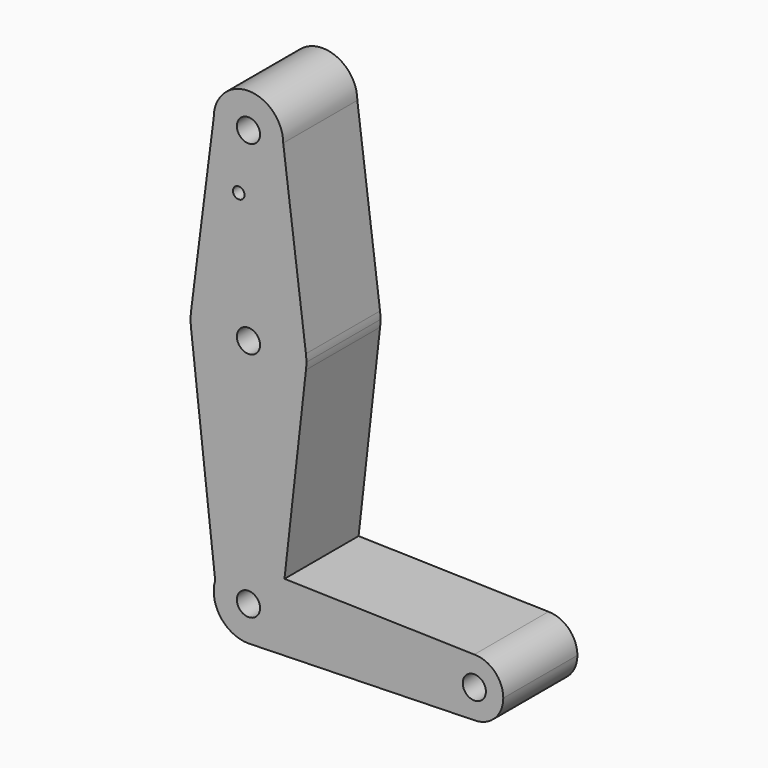
from build123d import *

# Parameters (mm, degrees)
F0_R     = 3.175
F0_R_2   = 1.5875
F1_DEPTH = 25.4


with BuildPart() as f1:
    # F0 (on Front) → F1 (new body)
    with BuildSketch(Plane.XZ):
        with BuildLine():
            ThreePointArc((-9.525, 114.3), (0, 104.775), (9.525, 114.3))
            ThreePointArc((9.525, 114.3), (0, 123.825), (-9.525, 114.3))
        make_face()
        with Locations((0, 114.3)):
            Circle(F0_R, mode=Mode.SUBTRACT)
        with BuildLine():
            Line((15.7474569259, 65.508289164), (9.525, 114.3))
            ThreePointArc((9.525, 114.3), (0, 104.775), (-9.525, 114.3))
            Line((-9.525, 114.3), (-15.7474569047, 65.5082893304))
            ThreePointArc((-15.7474569047, 65.5082893304), (8.39e-08, 79.375), (15.7474569259, 65.508289164))
        make_face()
        with Locations((-2.658412496, 98.3364137691)):
            Circle(F0_R_2, mode=Mode.SUBTRACT)
        with BuildLine():
            ThreePointArc((15.875, 63.5), (15.8430821449, 64.5061675559), (15.7474569259, 65.508289164))
            ThreePointArc((15.7474569259, 65.508289164), (8.39e-08, 79.375), (-15.7474569047, 65.5082893304))
            ThreePointArc((-15.7474569047, 65.5082893304), (-15.8749168485, 63.5513814524), (-15.7601270703, 61.5936894984))
            ThreePointArc((-15.7601270703, 61.5936894984), (0, 47.625), (15.7601270703, 61.5936894984))
            ThreePointArc((15.7601270703, 61.5936894984), (15.8462557445, 62.5451157769), (15.875, 63.5))
        make_face()
        with Locations((0, 63.5)):
            Circle(F0_R, mode=Mode.SUBTRACT)
        with BuildLine():
            ThreePointArc((15.7601270703, 61.5936894984), (0, 47.625), (-15.7601270703, 61.5936894984))
            Line((-15.7601270703, 61.5936894984), (-9.131612996, 2.7091085417))
            ThreePointArc((-9.131612996, 2.7091085417), (-5.6974277591, 7.6331475768), (0, 9.525))
            ThreePointArc((0, 9.525), (0.2441505225, 9.5218703794), (0.4881406045, 9.5124835742))
            Line((0.4881406045, 9.5124835742), (9.8703742168, 9.2719134816))
            Line((9.8703742168, 9.2719134816), (15.7601270703, 61.5936894984))
        make_face()
        with BuildLine():
            ThreePointArc((0, 9.525), (-5.6974277591, 7.6331475768), (-9.131612996, 2.7091085417))
            ThreePointArc((-9.131612996, 2.7091085417), (-7.6331475768, -5.6974277591), (0, -9.525))
            Line((0, -9.525), (0.4881406045, -9.5124835742))
            ThreePointArc((0.4881406045, -9.5124835742), (6.905619605, -6.5603386247), (9.525, 0))
            ThreePointArc((9.525, 0), (9.4261402172, 1.3687606096), (9.131612996, 2.7091085417))
            ThreePointArc((9.131612996, 2.7091085417), (5.8912131851, 7.4845996692), (0.4881406045, 9.5124835742))
            Line((0.4881406045, 9.5124835742), (0, 9.525))
        make_face()
        Circle(F0_R, mode=Mode.SUBTRACT)
        with BuildLine():
            Line((61.9125, 7.9375), (9.8703742168, 9.2719134816))
            Line((9.8703742168, 9.2719134816), (9.131612996, 2.7091085417))
            ThreePointArc((9.131612996, 2.7091085417), (9.4261402172, 1.3687606096), (9.525, 0))
            ThreePointArc((9.525, 0), (6.905619605, -6.5603386247), (0.4881406045, -9.5124835742))
            Line((0.4881406045, -9.5124835742), (61.9125, -7.9375))
            ThreePointArc((61.9125, -7.9375), (53.975, 0), (61.9125, 7.9375))
        make_face()
        with BuildLine():
            Line((9.131612996, 2.7091085417), (9.8703742168, 9.2719134816))
            Line((9.8703742168, 9.2719134816), (0.4881406045, 9.5124835742))
            ThreePointArc((0.4881406045, 9.5124835742), (5.8912131851, 7.4845996692), (9.131612996, 2.7091085417))
        make_face()
        with BuildLine():
            Line((0.4881406045, -9.5124835742), (0, -9.525))
            ThreePointArc((0, -9.525), (0.2441505225, -9.5218703794), (0.4881406045, -9.5124835742))
        make_face()
        with BuildLine():
            ThreePointArc((69.85, 0), (67.5251600757, 5.6126600757), (61.9125, 7.9375))
            ThreePointArc((61.9125, 7.9375), (53.975, 0), (61.9125, -7.9375))
            ThreePointArc((61.9125, -7.9375), (67.5251600757, -5.6126600757), (69.85, 0))
        make_face()
        with Locations((61.9125, 0)):
            Circle(F0_R, mode=Mode.SUBTRACT)
    extrude(amount=F1_DEPTH)


solid = f1.part
